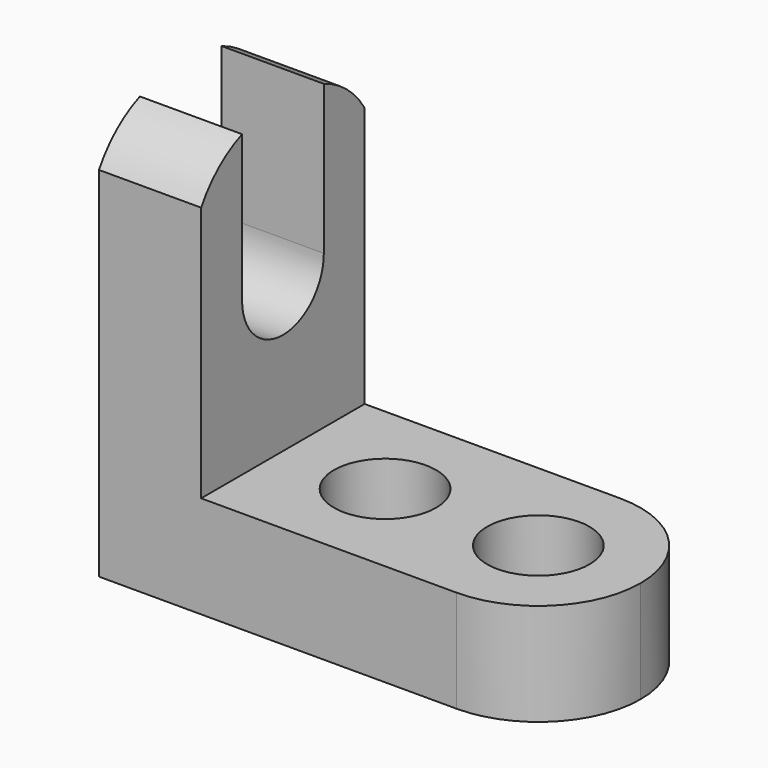
from build123d import *

# Parameters (mm, degrees)
F1_DEPTH = 25.4
F2_R     = 6.35
F3_DEPTH = 12.7
F5_DEPTH = 25.4
F7_DEPTH = 12.7
F9_DEPTH = 12.7


with BuildPart() as f1:
    # F0 (on Front) → F1 (new body)
    with BuildSketch(Plane.XZ):
        Polygon((-56.1258053064, 50.8), (-68.8258053064, 50.8), (-68.8258053064, 0), (-11.6758053064, 0), (-11.6758053064, 12.7), (-56.1258053064, 12.7), align=None)
    extrude(amount=F1_DEPTH)

    # F2 (on face) → F3 (cut)
    with BuildSketch(Plane.XY.offset(12.7)):
        with Locations((-43.4258053064, -12.7)):
            Circle(F2_R)
        with Locations((-24.3758053064, -12.7)):
            Circle(F2_R)
    extrude(amount=-F3_DEPTH, mode=Mode.SUBTRACT)

    # F4 (on face) → F5 (cut)
    with BuildSketch(Plane.XY.offset(12.7)):
        with BuildLine():
            ThreePointArc((-24.3758053064, 0), (-15.3955491853, -3.7197438789), (-11.6758053064, -12.7))
            Line((-11.6758053064, -12.7), (-11.6758053064, 0))
            Line((-11.6758053064, 0), (-24.3758053064, 0))
        make_face()
        with BuildLine():
            Line((-11.6758053064, -25.4), (-11.6758053064, -12.7))
            ThreePointArc((-11.6758053064, -12.7), (-15.3955491853, -21.6802561211), (-24.3758053064, -25.4))
            Line((-24.3758053064, -25.4), (-11.6758053064, -25.4))
        make_face()
    extrude(amount=-F5_DEPTH, mode=Mode.SUBTRACT)

    # F6 (on face) → F7 (cut)
    with BuildSketch(Plane.YZ.offset(-56.1258053064)):
        with BuildLine():
            ThreePointArc((-19.040173462, 31.75), (-12.690173462, 38.1), (-6.340173462, 31.75))
            Line((-6.340173462, 31.75), (-6.340173462, 50.8))
            Line((-6.340173462, 50.8), (-19.040173462, 50.8))
            Line((-19.040173462, 50.8), (-19.040173462, 31.75))
        make_face()
        with BuildLine():
            ThreePointArc((-19.040173462, 31.75), (-12.690173462, 25.4), (-6.340173462, 31.75))
            ThreePointArc((-6.340173462, 31.75), (-12.690173462, 38.1), (-19.040173462, 31.75))
        make_face()
    extrude(amount=-F7_DEPTH, mode=Mode.SUBTRACT)

    # F8 (on face) → F9 (cut)
    with BuildSketch(Plane.YZ.offset(-56.1258053064)):
        with BuildLine():
            ThreePointArc((-25.4, 44.5000978606), (-22.682681328, 47.7661903137), (-19.040173462, 49.9532699015))
            Line((-19.040173462, 49.9532699015), (-19.040173462, 50.8))
            Line((-19.040173462, 50.8), (-25.4, 50.8))
            Line((-25.4, 50.8), (-25.4, 44.5000978606))
        make_face()
        with BuildLine():
            Line((-6.340173462, 50.8), (-6.340173462, 50.3012942354))
            ThreePointArc((-6.340173462, 50.3012942354), (-2.7361670375, 48.2166562079), (0, 45.0785089908))
            Line((0, 45.0785089908), (0, 50.8))
            Line((0, 50.8), (-6.340173462, 50.8))
        make_face()
    extrude(amount=-F9_DEPTH, mode=Mode.SUBTRACT)


solid = f1.part
